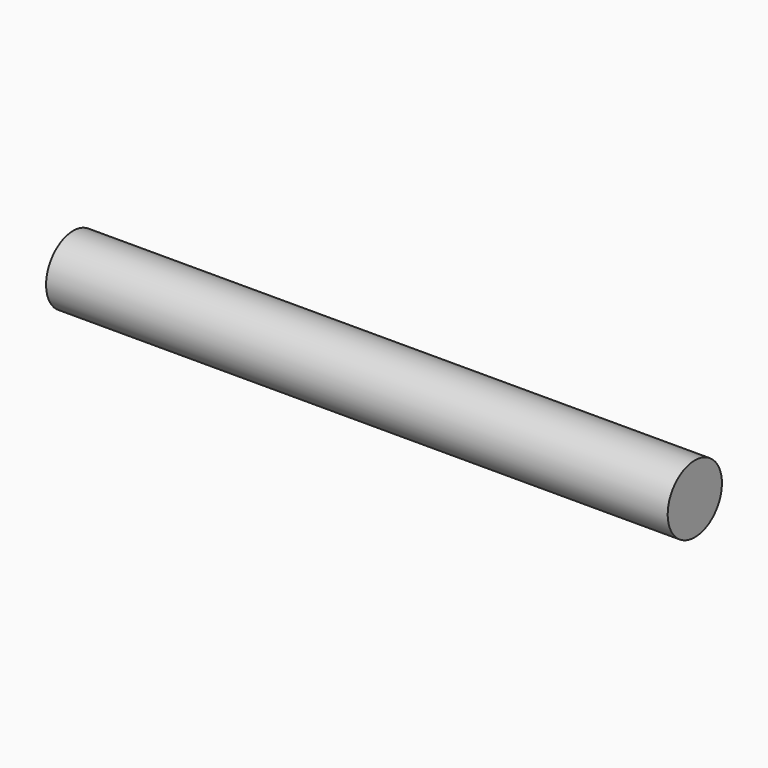
from build123d import *

# Parameters (mm, degrees)
F0_W = 55
F0_H = 6


with BuildPart() as f1:
    # F0 (on Front) → F1 (revolve)
    with BuildSketch(Plane.XZ):
        with Locations((-27.5, 3)):
            Rectangle(F0_W, F0_H)
        with Locations((27.5, 3)):
            Rectangle(F0_W, F0_H)
    revolve(axis=Axis((-27.5, 0, 0), (-1, 0, 0)))


solid = f1.part
